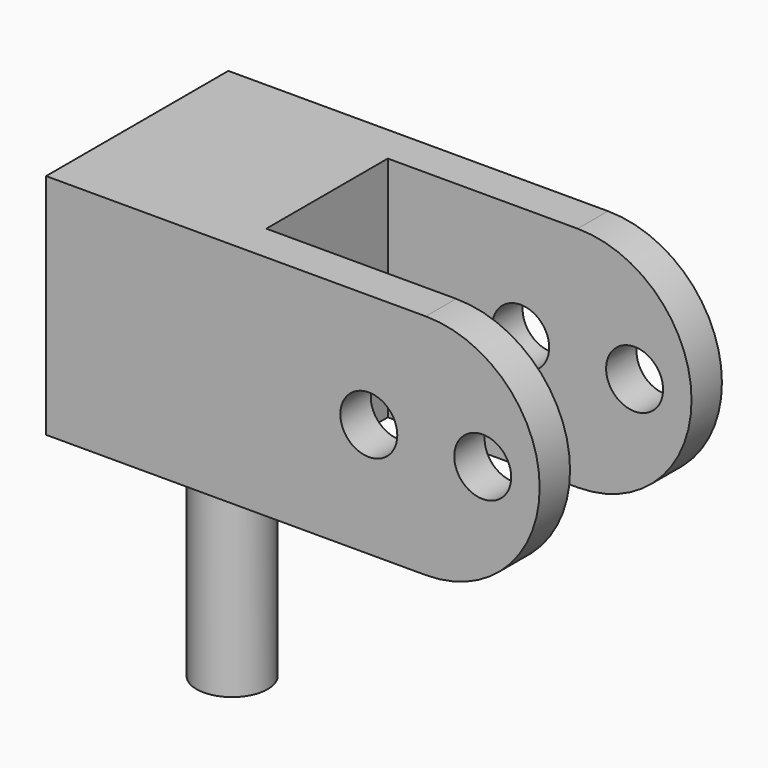
from build123d import *

# Parameters (mm, degrees)
F0_W     = 12.7
F0_H     = 15.24
F1_DEPTH = 15.24
F2_R     = 2.38125
F3_DEPTH = 15.24
F4_W     = 12.7
F4_H     = 15.24
F5_DEPTH = 2.54
F7_R     = 1.905
F8_DEPTH = 15.241


with BuildPart() as f1:
    # F0 (on Top) → F1 (new body)
    with BuildSketch(Plane.XY):
        Rectangle(F0_W, F0_H)
    extrude(amount=F1_DEPTH)

    # F2 (on face) → F3 (join)
    with BuildSketch(Plane(origin=(0, 0, 0), x_dir=(1, 0, 0), z_dir=(0, 0, -1))):
        Circle(F2_R)
    extrude(amount=F3_DEPTH)

    # F4 (on face) → F5 (join)
    with BuildSketch(Plane.XZ.offset(7.62)):
        with Locations((12.7, 7.62)):
            Rectangle(F4_W, F4_H)
        with BuildLine():
            ThreePointArc((19.05, 0), (26.67, 7.62), (19.05, 15.24))
            Line((19.05, 15.24), (19.05, 0))
        make_face()
    extrude(amount=-F5_DEPTH)

    # F6: F1 across plane


with BuildPart() as f1_1:
    add(f1.part)
    add(f1.part.mirror(Plane.XZ))

    # F7 (on face) → F8 (cut, through all)
    with BuildSketch(Plane.XZ.offset(7.62)):
        with Locations((15.24, 7.62)):
            Circle(F7_R)
        with Locations((22.86, 7.62)):
            Circle(F7_R)
    extrude(amount=-F8_DEPTH, mode=Mode.SUBTRACT)


solid = f1_1.part
